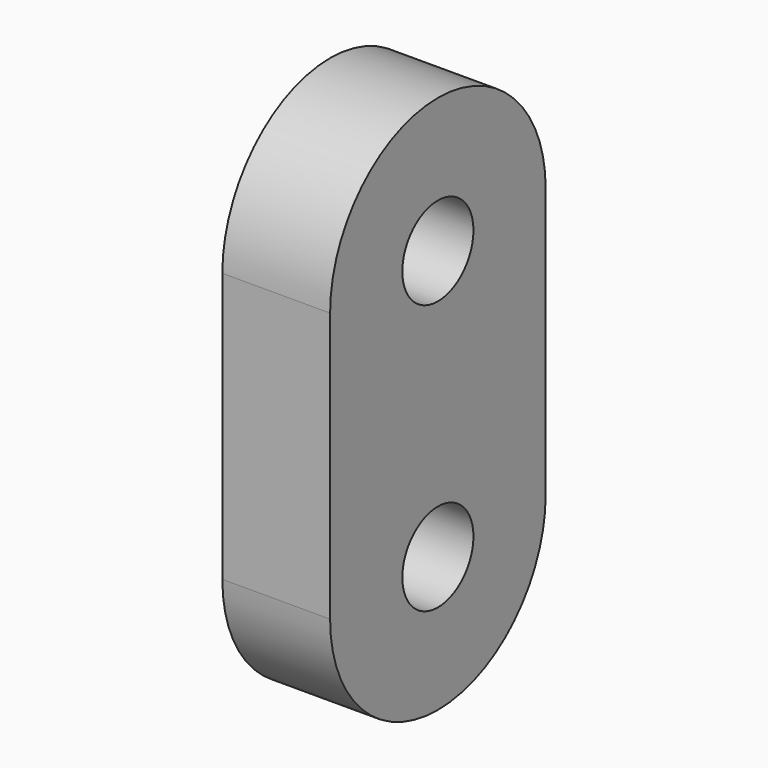
from build123d import *

# Parameters (mm, degrees)
F0_R     = 1.65
F1_DEPTH = 4


with BuildPart() as f1:
    # F0 (on Right) → F1 (new body)
    with BuildSketch(Plane.YZ):
        with BuildLine():
            ThreePointArc((-48.821181, -4.12602), (-53.821181, 0.87398), (-58.821181, -4.12602))
            Line((-58.821181, -4.12602), (-58.821181, -14.12602))
            ThreePointArc((-58.821181, -14.12602), (-53.821181, -19.12602), (-48.821181, -14.12602))
            Line((-48.821181, -14.12602), (-48.821181, -4.12602))
        make_face()
        with Locations((-53.821181, -14.12602)):
            Circle(F0_R, mode=Mode.SUBTRACT)
        with Locations((-53.821181, -4.12602)):
            Circle(F0_R, mode=Mode.SUBTRACT)
    extrude(amount=F1_DEPTH)


solid = f1.part
